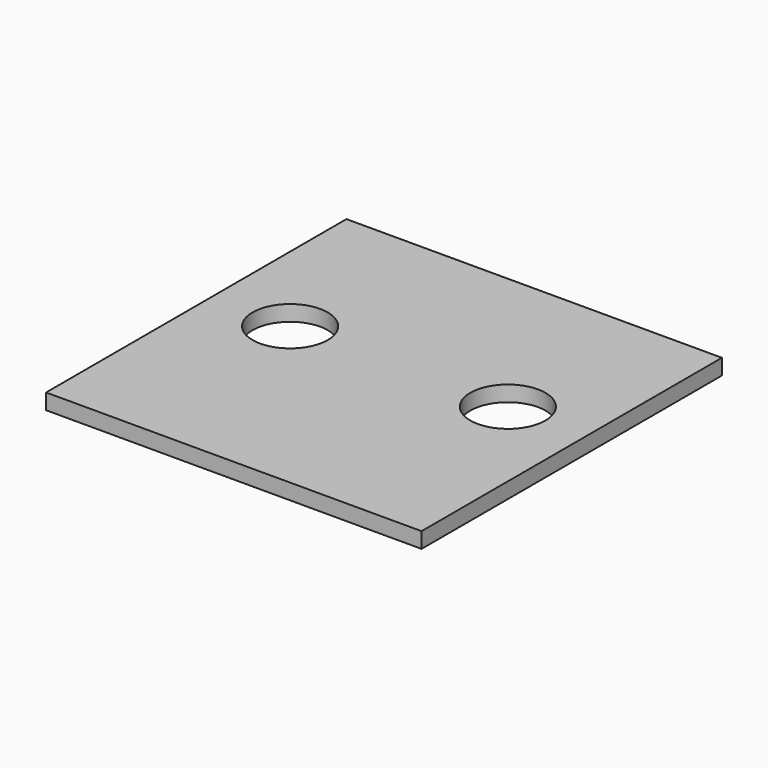
from build123d import *

# Parameters (mm, degrees)
F0_W     = 152.4
F0_H     = 6.35
F1_DEPTH = 152.4
F3_D     = 30.48


with BuildPart() as f1:
    # F0 (on Front) → F1 (new body)
    with BuildSketch(Plane.XZ):
        Rectangle(F0_W, F0_H)
    extrude(amount=F1_DEPTH)

    # F3 (through all)
    with Locations(Plane.XY.offset(3.175)):
        with Locations((-44.196, -68.58), (44.196, -68.58)):
            Hole(F3_D / 2)


with BuildPart() as f4_1:
    # F4: copy of F1
    add(f1.part)


solid = Compound([f1.part, f4_1.part])
